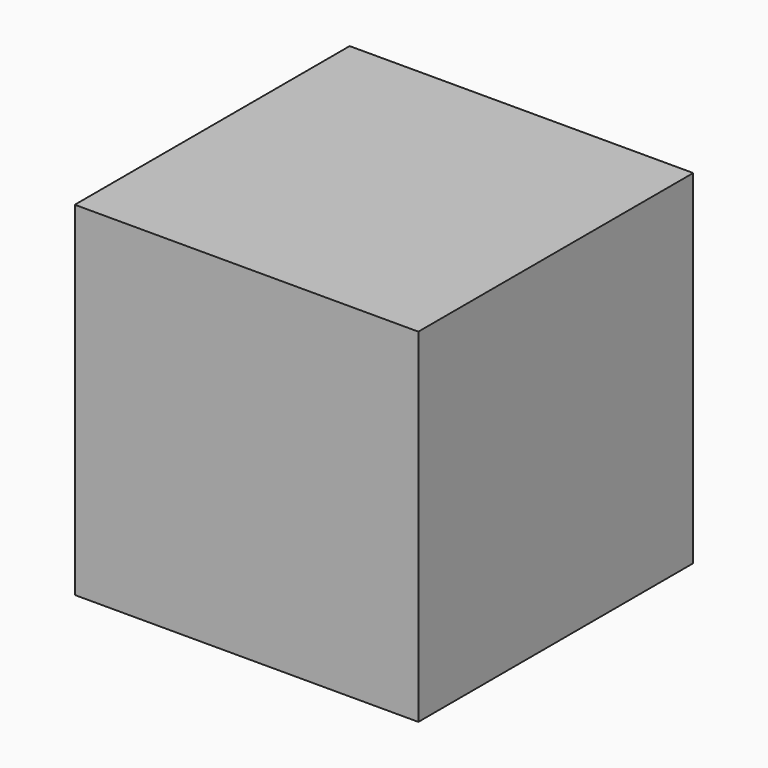
from build123d import *

# Parameters (mm, degrees)
F0_W     = 19.05
F0_H     = 19.05
F1_DEPTH = 9.525
F2_R     = 3.302
F3_DEPTH = 3.683


with BuildPart() as f1:
    # F0 (on Top) → F1 (new body, symmetric)
    with BuildSketch(Plane.XY):
        Rectangle(F0_W, F0_H)
    extrude(amount=F1_DEPTH, both=True)

    # F2 (on face) → F3 (cut)
    with BuildSketch(Plane(origin=(0, 0, -9.525), x_dir=(1, 0, 0), z_dir=(0, 0, -1))):
        Circle(F2_R)
    extrude(amount=-F3_DEPTH, mode=Mode.SUBTRACT)


solid = f1.part
